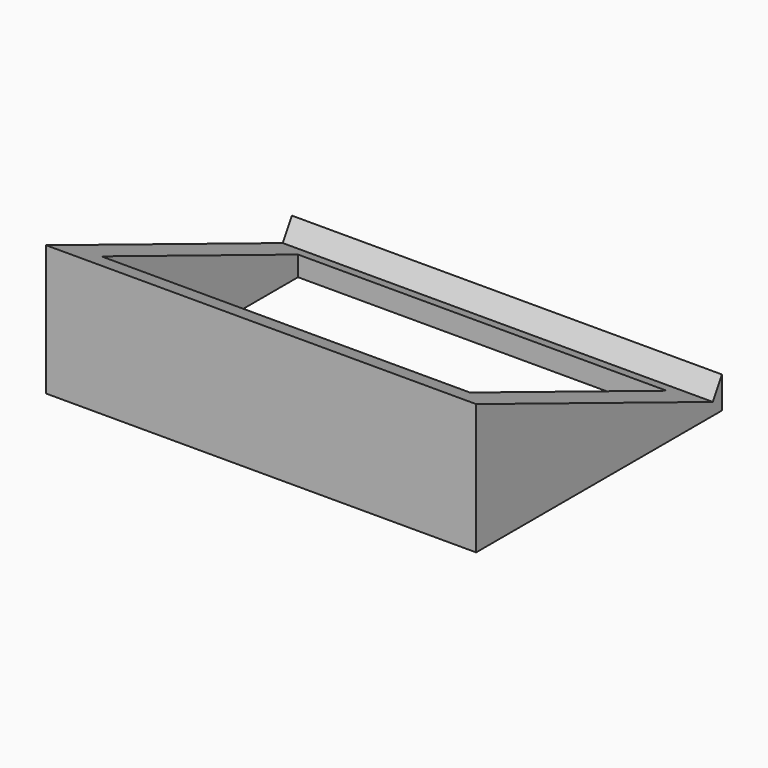
from build123d import *

# Parameters (mm, degrees)
F0_W     = 177.8
F0_H     = 127
F1_DEPTH = 50.8
F3_DEPTH = 2514.6
F4_DEPTH = 3.175
F6_DEPTH = 2514.6


with BuildPart() as f1:
    # F0 (on Top) → F1 (new body)
    with BuildSketch(Plane.XY):
        Rectangle(F0_W, F0_H)
    extrude(amount=F1_DEPTH)

    # F2 (on face) → F3 (cut)
    with BuildSketch(Plane(origin=(-88.9, 0, 0), x_dir=(0, -1, 0), z_dir=(-1, 0, 0))):
        Polygon((-63.5, 9.9646151066), (-58.8191700766, 1.8723319694), (63.5, 50.8), (-63.5, 50.8), align=None)
    extrude(amount=-F3_DEPTH, mode=Mode.SUBTRACT)

    # F4 (add): a face of the model
    f4_faces = [f1.faces().sort_by_distance(p)[0] for p in [
        (0, 0, 0),
    ]]
    extrude(f4_faces, amount=F4_DEPTH)

    # F5 (on face) → F6 (cut)
    with BuildSketch(Plane(origin=(0, 0, -3.175), x_dir=(1, 0, 0), z_dir=(0, 0, -1))):
        Polygon((-76.2, -50.8), (76.2, -50.8), (76.2, 0), (76.2, 50.8), (0, 50.8), (-76.2, 50.8), align=None)
    extrude(amount=-F6_DEPTH, mode=Mode.SUBTRACT)


solid = f1.part
